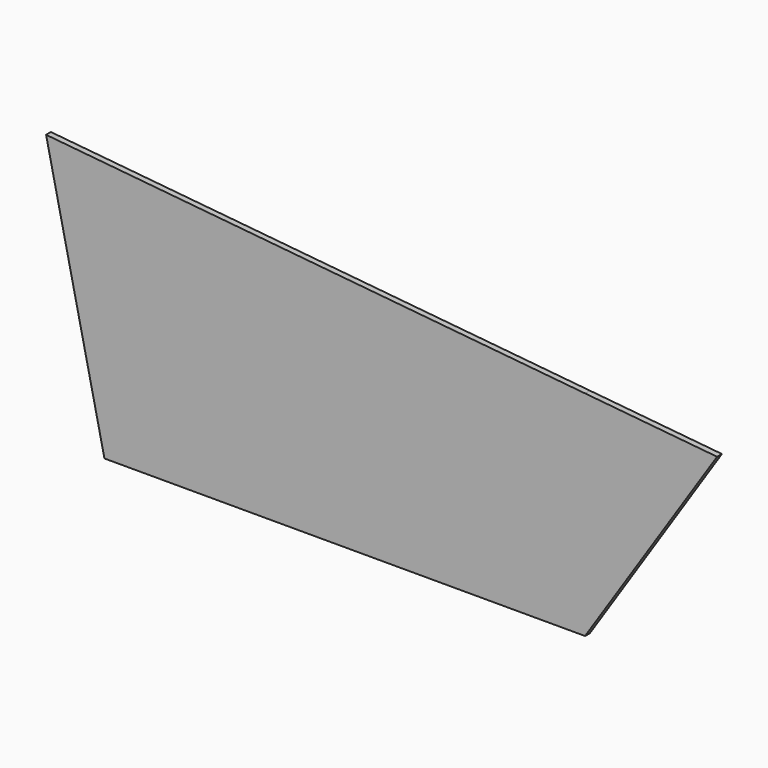
from build123d import *

# Parameters (mm, degrees)
F1_DEPTH = 9


with BuildPart() as f1:
    # F0 (on Front) → F1 (new body)
    with BuildSketch(Plane.XZ):
        Polygon((0, 390), (0, 0), (720, 0), (720, 320), align=None)
        Polygon((-87.421968, 398.499358), (0, 0), (0, 390), align=None)
        Polygon((720, 320), (720, 0), (917.838265, 300.765724), align=None)
    extrude(amount=F1_DEPTH)


solid = f1.part
